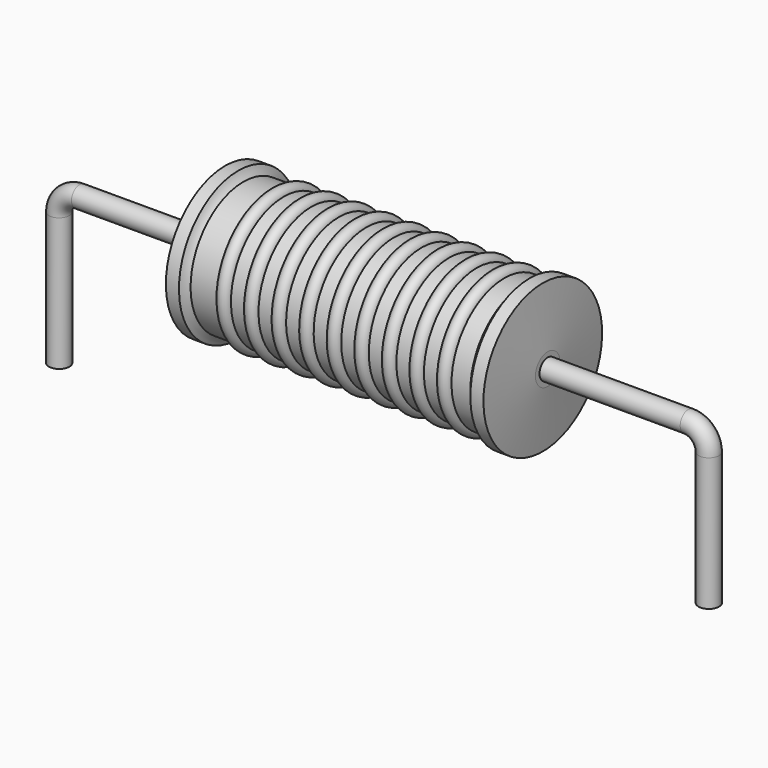
from build123d import *

# Parameters (mm, degrees)
SKETCH_R = 0.4


with BuildPart() as revolution:
    # Sketch002 → Revolution (revolve)
    with BuildSketch(Plane.XZ):
        with BuildLine():
            Line((6.492, 5.9), (7.004, 5.9))
            ThreePointArc((7.004, 5.9), (7.085878, 5.729406), (7.202, 5.58))
            Line((7.202, 5.58), (18.14, 5.58))
            ThreePointArc((18.14, 5.58), (18.28449, 5.726808), (18.396, 5.9))
            Line((18.396, 5.9), (18.908, 5.9))
            ThreePointArc((19.1, 3.6), (19.005983, 4.750166), (18.908, 5.9))
            Line((19.1, 3), (19.1, 3.6))
            Line((6.3, 3), (19.1, 3))
            Line((6.3, 3), (6.3, 3.6))
            ThreePointArc((6.492, 5.9), (6.394017, 4.750166), (6.3, 3.6))
        make_face()
    revolve(axis=Axis((6.3, 0, 3), (1, 0, 0)))


with BuildPart() as sweep_body:
    # Sweep: sweep along a path in Sketch001
    with BuildLine(Plane.XZ) as sweep_path:
        Line((0, -3), (0, 2.2))
        ThreePointArc((0, 2.2), (0.234311, 2.765682), (0.799991, 3))
        Line((0.799991, 3), (24.6, 3))
        ThreePointArc((24.6, 3), (25.165685, 2.765685), (25.4, 2.2))
        Line((25.4, 2.2), (25.4, -3))
    # Sketch → Sweep (sweep)
    with BuildSketch(Plane.XY.offset(-2)):
        Circle(SKETCH_R)
    sweep(path=sweep_path.line)


with BuildPart() as revolution001:
    # Sketch003 → Revolution001 (revolve)
    with BuildSketch(Plane.XZ):
        with BuildLine():
            ThreePointArc((8.785895, 5.5288), (8.516421, 5.798274), (8.246947, 5.5288))
            Line((7.708, 5.5288), (8.246947, 5.5288))
            Line((7.708, 5.5288), (7.708, 4.9488))
            Line((7.708, 4.9488), (17.948, 4.9488))
            Line((17.948, 4.9488), (17.948, 5.5288))
            Line((17.409053, 5.5288), (17.948, 5.5288))
            ThreePointArc((17.409053, 5.5288), (17.139579, 5.798274), (16.870105, 5.5288))
            Line((16.331158, 5.5288), (16.870105, 5.5288))
            ThreePointArc((16.331158, 5.5288), (16.061684, 5.798274), (15.792211, 5.5288))
            Line((15.253263, 5.5288), (15.792211, 5.5288))
            ThreePointArc((15.253263, 5.5288), (14.983789, 5.798274), (14.714316, 5.5288))
            Line((14.175368, 5.5288), (14.714316, 5.5288))
            ThreePointArc((14.175368, 5.5288), (13.905895, 5.798274), (13.636421, 5.5288))
            Line((13.097474, 5.5288), (13.636421, 5.5288))
            ThreePointArc((13.097474, 5.5288), (12.828, 5.798274), (12.558526, 5.5288))
            Line((12.019579, 5.5288), (12.558526, 5.5288))
            ThreePointArc((12.019579, 5.5288), (11.750105, 5.798274), (11.480632, 5.5288))
            Line((10.941684, 5.5288), (11.480632, 5.5288))
            ThreePointArc((10.941684, 5.5288), (10.672211, 5.798274), (10.402737, 5.5288))
            Line((9.863789, 5.5288), (10.402737, 5.5288))
            ThreePointArc((9.863789, 5.5288), (9.594316, 5.798274), (9.324842, 5.5288))
            Line((8.785895, 5.5288), (9.324842, 5.5288))
        make_face()
    revolve(axis=Axis((6.62, 0, 3), (1, 0, 0)))


solid = Compound([revolution.part, sweep_body.part, revolution001.part])
